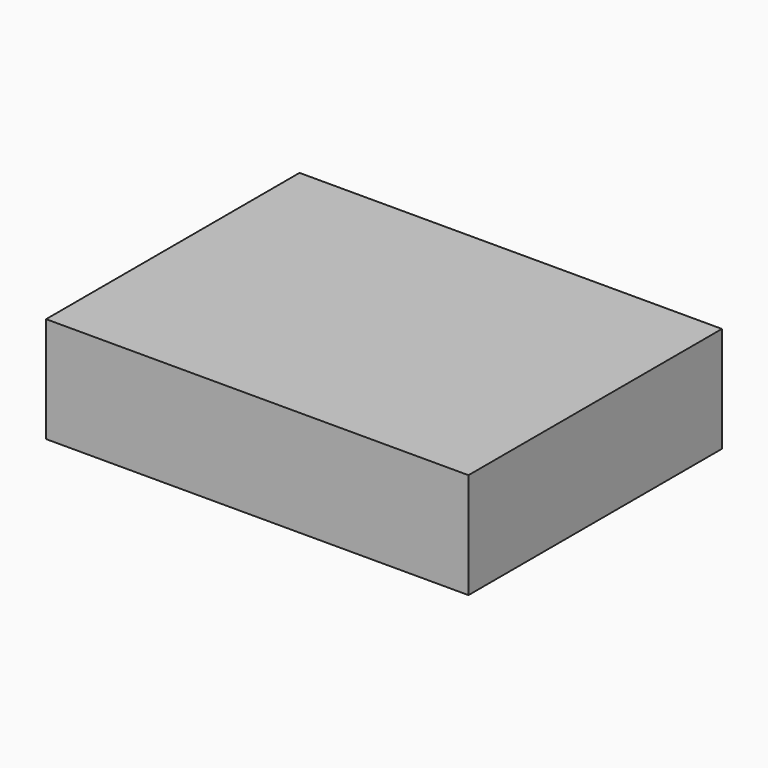
from build123d import *

# Parameters (mm, degrees)
F0_W     = 80
F0_H     = 60
F1_DEPTH = 20
F2_T     = -2
F3_W     = 77.999998
F3_H     = 57.999998
F4_DEPTH = 2


with BuildPart() as f1:
    # F0 (on Top) → F1 (new body)
    with BuildSketch(Plane.XY):
        Rectangle(F0_W, F0_H)
    extrude(amount=-F1_DEPTH)

    # F2
    f2_openings = [f1.faces().sort_by_distance(p)[0] for p in [
        (0, 0, -20),
    ]]
    offset(amount=F2_T, openings=f2_openings)

    # F3 (on face) → F4 (cut)
    with BuildSketch(Plane(origin=(0, 0, -20), x_dir=(1, 0, 0), z_dir=(0, 0, -1))):
        Rectangle(F3_W, F3_H)
    extrude(amount=-F4_DEPTH, mode=Mode.SUBTRACT)


solid = f1.part
